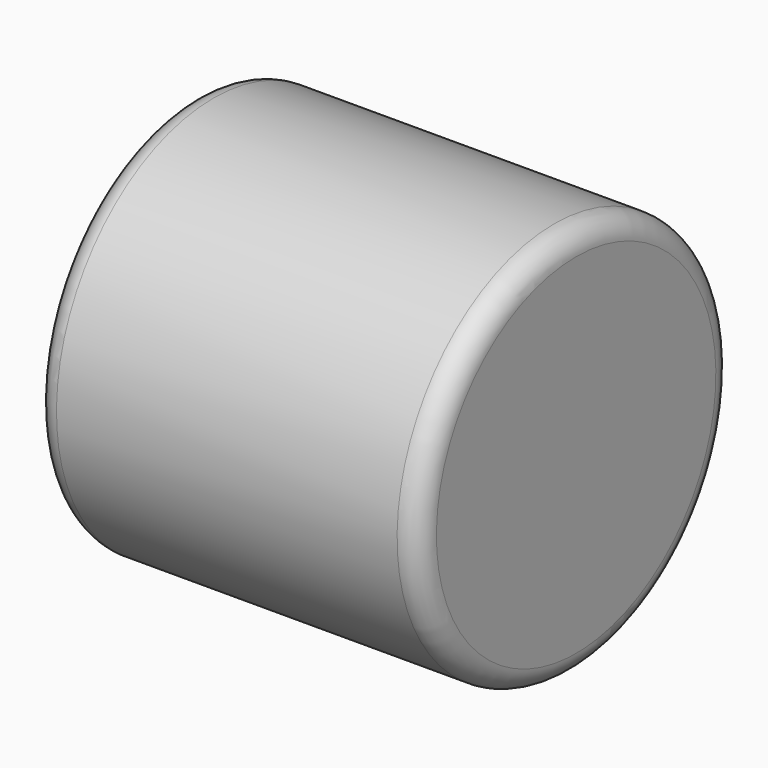
from build123d import *


with BuildPart() as f1:
    # F0 (on Front) → F1 (revolve)
    with BuildSketch(Plane.XZ):
        with BuildLine():
            Line((0, 40), (0, 0))
            Line((0, 0), (2, 0))
            Line((2, 0), (2, 38))
            ThreePointArc((2, 38), (3.464466, 41.535534), (7, 43))
            Line((7, 43), (81, 43))
            ThreePointArc((81, 43), (84.535534, 41.535534), (86, 38))
            Line((86, 38), (86, 0))
            Line((86, 0), (88, 0))
            Line((88, 0), (88, 40))
            ThreePointArc((88, 40), (86.535534, 43.535534), (83, 45))
            Line((83, 45), (5, 45))
            ThreePointArc((5, 45), (1.464466, 43.535534), (0, 40))
        make_face()
    revolve(axis=Axis((44, 0, 0), (1, 0, 0)))


solid = f1.part
